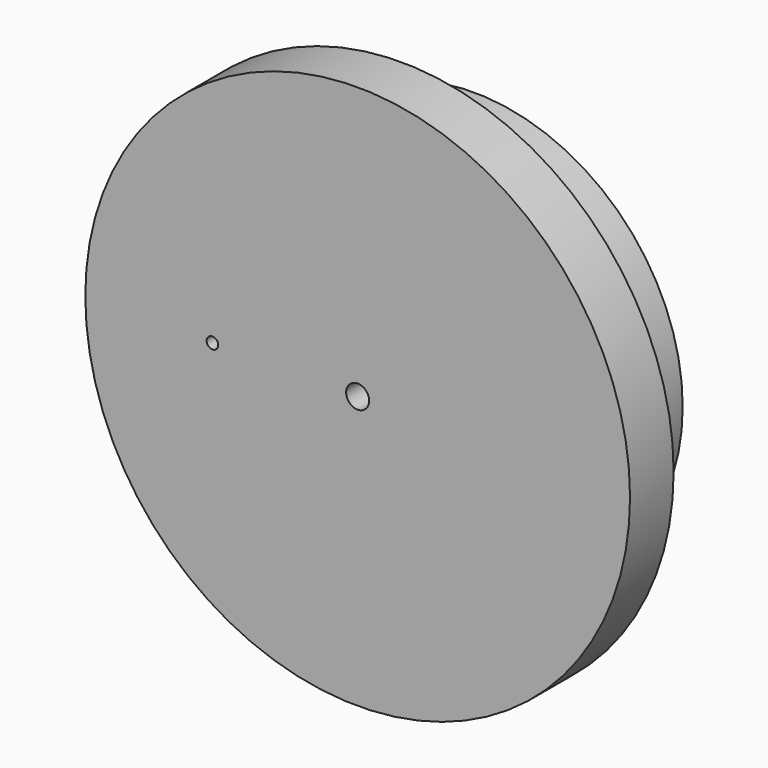
from build123d import *

# Parameters (mm, degrees)
F0_R     = 75
F1_DEPTH = 15
F2_R     = 57.5
F3_DEPTH = 25
F4_R     = 3.175
F4_R_2   = 1.5875
F5_DEPTH = 40.001


with BuildPart() as f1:
    # F0 (on Front) → F1 (new body)
    with BuildSketch(Plane.XZ):
        Circle(F0_R)
    extrude(amount=F1_DEPTH)

    # F2 (on face) → F3 (join)
    with BuildSketch(Plane(origin=(0, 0, 0), x_dir=(-1, 0, 0), z_dir=(0, 1, 0))):
        Circle(F2_R)
    extrude(amount=F3_DEPTH)

    # F4 (on face) → F5 (cut, through all)
    with BuildSketch(Plane.XZ.offset(15)):
        Circle(F4_R)
        with Locations((-40, 0)):
            Circle(F4_R_2)
    extrude(amount=-F5_DEPTH, mode=Mode.SUBTRACT)


solid = f1.part
